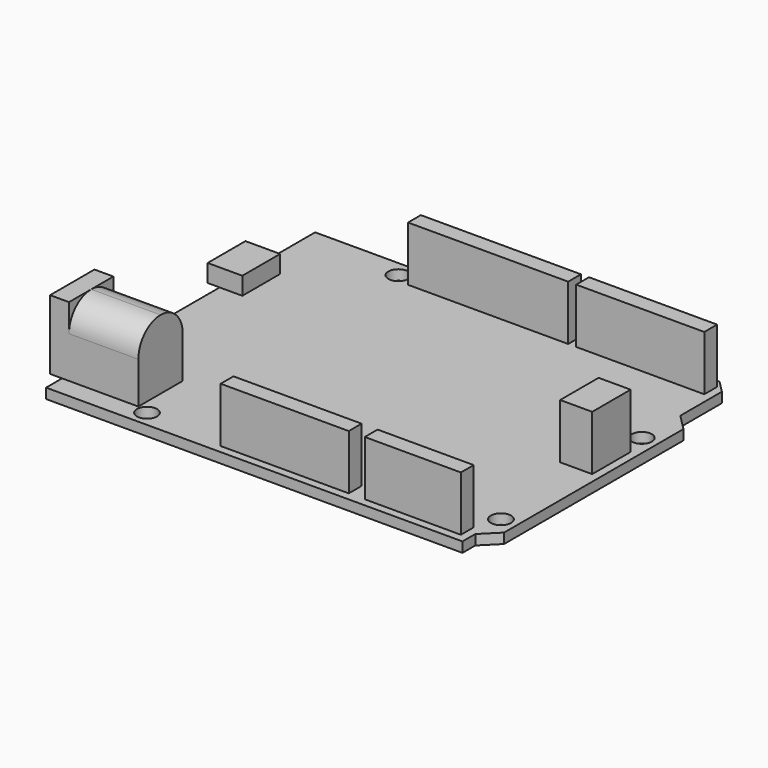
from build123d import *

# Parameters (mm, degrees)
F0_R     = 1.6
F1_DEPTH = 1.6
F2_W     = 25.4
F2_H     = 2.54
F2_W_2   = 20.32
F2_W_3   = 15.24
F2_W_4   = 5.08
F2_H_2   = 7.62
F3_DEPTH = 8.7
F2_W_5   = 1.905
F2_H_3   = 7.5
F2_W_6   = 3.595
F4_DEPTH = 2.8
F2_W_7   = 12.095
F2_H_4   = 8.8
F5_DEPTH = 11
F7_DEPTH = 11


with BuildPart() as f1:
    # F0 (on Top) → F1 (new body)
    with BuildSketch(Plane.XY):
        Polygon((50.165, 50.8), (-13.97, 50.8), (-13.97, -2.54), (52.07, -2.54), (52.07, 0), (54.61, 2.54), (54.61, 38.1), (52.07, 40.64), (52.07, 48.895), align=None)
        Circle(F0_R, mode=Mode.SUBTRACT)
        with Locations((52.07, 5.08)):
            Circle(F0_R, mode=Mode.SUBTRACT)
        with Locations((1.27, 48.26)):
            Circle(F0_R, mode=Mode.SUBTRACT)
        with Locations((52.07, 33.02)):
            Circle(F0_R, mode=Mode.SUBTRACT)
    extrude(amount=-F1_DEPTH)


with BuildPart() as f3:
    # F2 (on face) → F3 (new body)
    with BuildSketch(Plane.XY):
        with Locations((16.51, 48.26)):
            Rectangle(F2_W, F2_H)
        with Locations((40.64, 48.26)):
            Rectangle(F2_W_2, F2_H)
        with Locations((43.18, 0)):
            Rectangle(F2_W_3, F2_H)
        with Locations((22.86, 0)):
            Rectangle(F2_W_2, F2_H)
        with Locations((50.8, 25.4)):
            Rectangle(F2_W_4, F2_H_2)
    extrude(amount=F3_DEPTH)


with BuildPart() as f4:
    # F2 (on face) → F4 (new body)
    with BuildSketch(Plane.XY):
        with Locations((-14.9225, 35.62)):
            Rectangle(F2_W_5, F2_H_3)
        with Locations((-12.1725, 35.62)):
            Rectangle(F2_W_6, F2_H_3)
    extrude(amount=F4_DEPTH)


with BuildPart() as f5:
    # F2 (on face) → F5 (new body)
    with BuildSketch(Plane.XY):
        with Locations((-7.9225, 5.035)):
            Rectangle(F2_W_7, F2_H_4)
        with Locations((-14.9225, 5.035)):
            Rectangle(F2_W_5, F2_H_4)
    extrude(amount=F5_DEPTH)

    # F6 (on face) → F7 (cut)
    with BuildSketch(Plane.YZ.offset(-1.875)):
        with BuildLine():
            ThreePointArc((5.035, 11), (8.14627, 9.71127), (9.435, 6.6))
            Line((9.435, 6.6), (9.435, 11))
            Line((9.435, 11), (5.035, 11))
        make_face()
        with BuildLine():
            ThreePointArc((0.635, 6.6), (1.92373, 9.71127), (5.035, 11))
            Line((5.035, 11), (0.635, 11))
            Line((0.635, 11), (0.635, 6.6))
        make_face()
    extrude(amount=-F7_DEPTH, mode=Mode.SUBTRACT)


solid = Compound([f1.part, f3.part, f4.part, f5.part])
